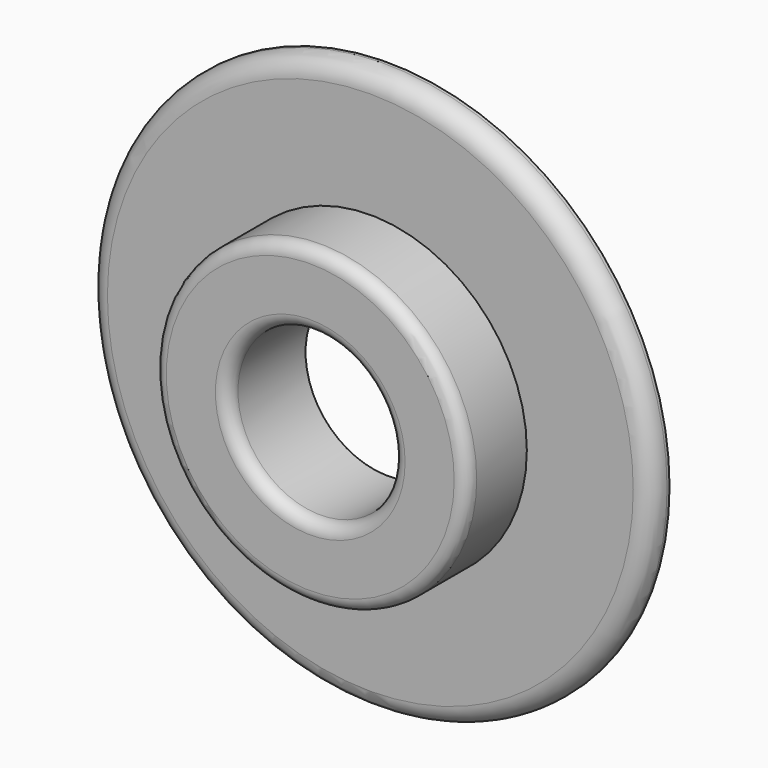
from build123d import *

# Parameters (mm, degrees)
F0_R     = 45
F0_R_2   = 13.1526649771
F1_DEPTH = 3.5
F2_R     = 3
F3_R     = 25
F3_R_2   = 13.1526649771
F4_DEPTH = 12
F5_R     = 2


with BuildPart() as f1:
    # F0 (on Front) → F1 (new body)
    with BuildSketch(Plane.XZ):
        Circle(F0_R)
        Circle(F0_R_2, mode=Mode.SUBTRACT)
    extrude(amount=F1_DEPTH)

    # F2
    f2_edges = [f1.edges().sort_by_distance(p)[0] for p in [
        (-45, -3.5, 0),
    ]]
    fillet(f2_edges, radius=F2_R)

    # F3 (on face) → F4 (join)
    with BuildSketch(Plane.XZ.offset(3.5)):
        Circle(F3_R)
        Circle(F3_R_2, mode=Mode.SUBTRACT)
    extrude(amount=F4_DEPTH)

    # F5
    f5_edges = [f1.edges().sort_by_distance(p)[0] for p in [
        (-13.152665, -15.5, 0),
        (-25, -15.5, 0),
    ]]
    fillet(f5_edges, radius=F5_R)


solid = f1.part
